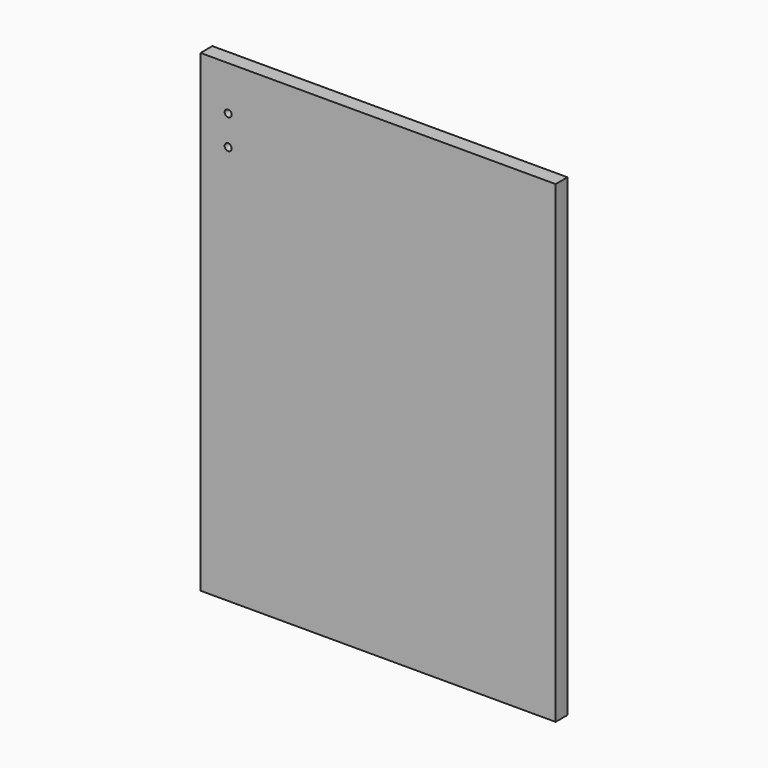
from build123d import *

# Parameters (mm, degrees)
F0_W     = 152.4
F0_H     = 203.2
F1_DEPTH = 6.35
F3_R     = 1.5
F4_DEPTH = 25


with BuildPart() as f1:
    # F0 (on Front) → F1 (new body)
    with BuildSketch(Plane.XZ):
        Rectangle(F0_W, F0_H)
    extrude(amount=F1_DEPTH)

    # F2 (on Front) + F3 (on Front) → F4 (cut)
    with BuildSketch(Plane.XZ):
        with BuildLine():
            ThreePointArc((-64.346664, 71.35), (-65.407324, 68.78934), (-62.846664, 69.85))
            ThreePointArc((-62.846664, 69.85), (-63.286003, 70.91066), (-64.346664, 71.35))
        make_face()
    with BuildSketch(Plane.XZ):
        with Locations((-64.34115, 82.584441)):
            Circle(F3_R)
    extrude(amount=F4_DEPTH, mode=Mode.SUBTRACT)


solid = f1.part
